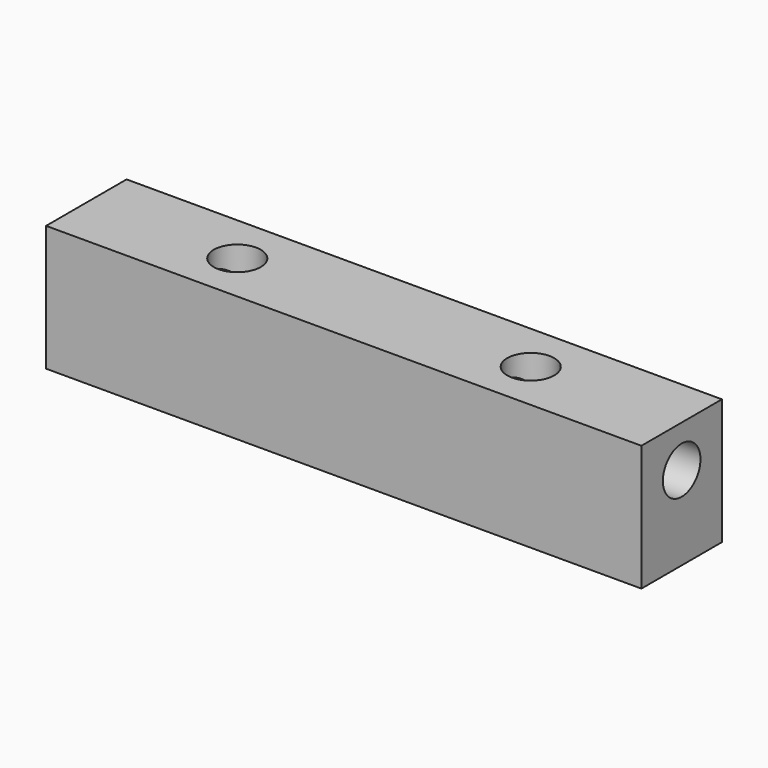
from build123d import *

# Parameters (mm, degrees)
F0_W     = 35.5
F0_H     = 6
F1_DEPTH = 7.5
F2_R     = 1.4
F3_DEPTH = 12
F4_R     = 1.4
F5_DEPTH = 12
F6_R     = 1.4
F7_DEPTH = 7.5


with BuildPart() as f1:
    # F0 (on Top) → F1 (new body)
    with BuildSketch(Plane.XY):
        with Locations((17.75, 3)):
            Rectangle(F0_W, F0_H)
    extrude(amount=F1_DEPTH)

    # F2 (on face) → F3 (cut)
    with BuildSketch(Plane.YZ.offset(35.5)):
        with Locations((3, 5)):
            Circle(F2_R)
    extrude(amount=-F3_DEPTH, mode=Mode.SUBTRACT)

    # F4 (on face) → F5 (cut)
    with BuildSketch(Plane(origin=(0, 0, 0), x_dir=(0, -1, 0), z_dir=(-1, 0, 0))):
        with Locations((-3, 5)):
            Circle(F4_R)
    extrude(amount=-F5_DEPTH, mode=Mode.SUBTRACT)

    # F6 (on face) → F7 (cut, through all)
    with BuildSketch(Plane(origin=(0, 0, 0), x_dir=(1, 0, 0), z_dir=(0, 0, -1))):
        with Locations((9, -3)):
            Circle(F6_R)
        with Locations((26.5, -3)):
            Circle(F6_R)
    extrude(amount=-F7_DEPTH, mode=Mode.SUBTRACT)


solid = f1.part
